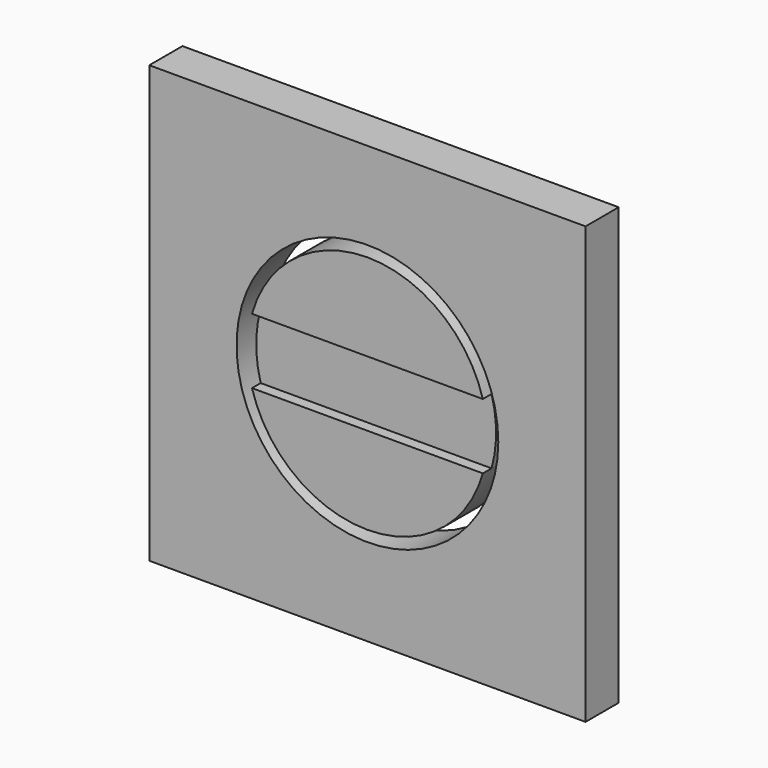
from build123d import *

# Parameters (mm, degrees)
F0_W     = 200
F0_H     = 200
F1_DEPTH = 19
F3_DEPTH = 5
F2_R     = 60
F4_DEPTH = 19


with BuildPart() as f1:
    # F0 (on Front) → F1 (new body)
    with BuildSketch(Plane.XZ):
        with Locations((100, 100)):
            Rectangle(F0_W, F0_H)
    extrude(amount=F1_DEPTH)

    # F2 (on face) → F3 (cut)
    with BuildSketch(Plane.XZ.offset(19)):
        with BuildLine():
            Line((152.915026, 115), (47.084974, 115))
            ThreePointArc((47.084974, 115), (45, 100), (47.084974, 85))
            Line((47.084974, 85), (152.915026, 85))
            ThreePointArc((152.915026, 85), (155, 100), (152.915026, 115))
        make_face()
    extrude(amount=-F3_DEPTH, mode=Mode.SUBTRACT)

    # F2 (on face) → F4 (cut)
    with BuildSketch(Plane.XZ.offset(19)):
        with Locations((100, 100)):
            Circle(F2_R)
        with BuildLine():
            ThreePointArc((47.084974, 85), (45, 100), (47.084974, 115))
            ThreePointArc((47.084974, 115), (100, 155), (152.915026, 115))
            ThreePointArc((152.915026, 115), (155, 100), (152.915026, 85))
            ThreePointArc((152.915026, 85), (100, 45), (47.084974, 85))
        make_face(mode=Mode.SUBTRACT)
    extrude(amount=-F4_DEPTH, mode=Mode.SUBTRACT)


solid = f1.part
